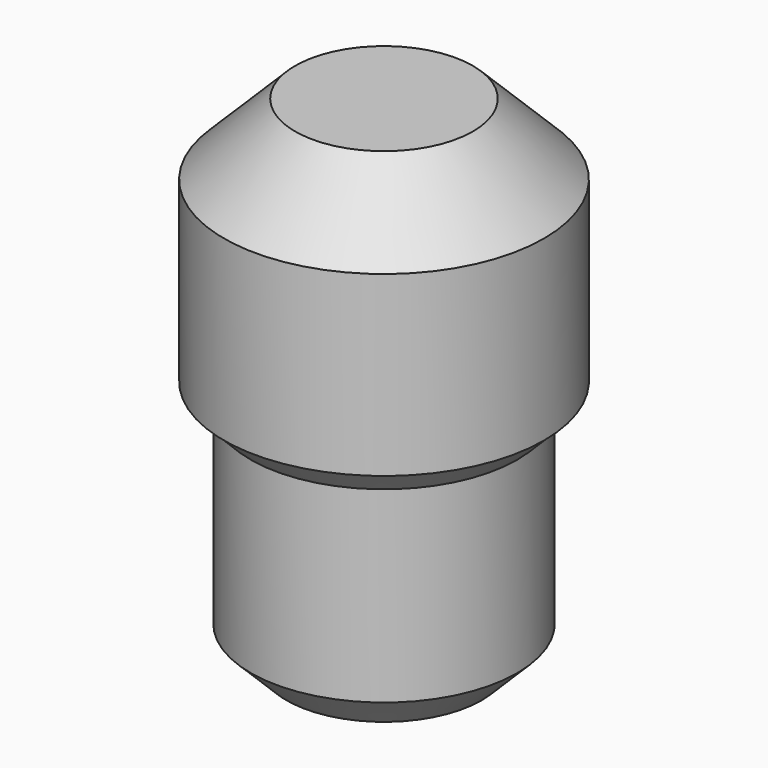
from build123d import *

# Parameters (mm, degrees)
SKETCH017_R     = 2.25
PAD003_DEPTH    = 3.5
CHAMFER001_SIZE = 1
SKETCH020_R     = 1.875
PAD006_DEPTH    = 3.5
CHAMFER002_SIZE = 0.36
CHAMFER003_SIZE = 0.5


with BuildPart() as part:
    # Sketch017 → Pad003 (new body)
    with BuildSketch(Plane.XY):
        Circle(SKETCH017_R)
    extrude(amount=PAD003_DEPTH)

    # Chamfer001
    chamfer001_edges = [part.edges().sort_by_distance(p)[0] for p in [
        (-2.25, 0, 3.5),
    ]]
    chamfer(chamfer001_edges, length=CHAMFER001_SIZE)

    # Sketch020 (on Face3 of Chamfer001) → Pad006 (join)
    with BuildSketch(Plane(origin=(0, 0, 0), x_dir=(1, 0, 0), z_dir=(0, 0, -1))):
        Circle(SKETCH020_R)
    extrude(amount=PAD006_DEPTH)

    # Chamfer002
    chamfer002_edges = [part.edges().sort_by_distance(p)[0] for p in [
        (-1.875, 0, 0),
    ]]
    chamfer(chamfer002_edges, length=CHAMFER002_SIZE)

    # Chamfer003
    chamfer003_edges = [part.edges().sort_by_distance(p)[0] for p in [
        (-1.875, 0, -3.5),
    ]]
    chamfer(chamfer003_edges, length=CHAMFER003_SIZE)


solid = part.part
